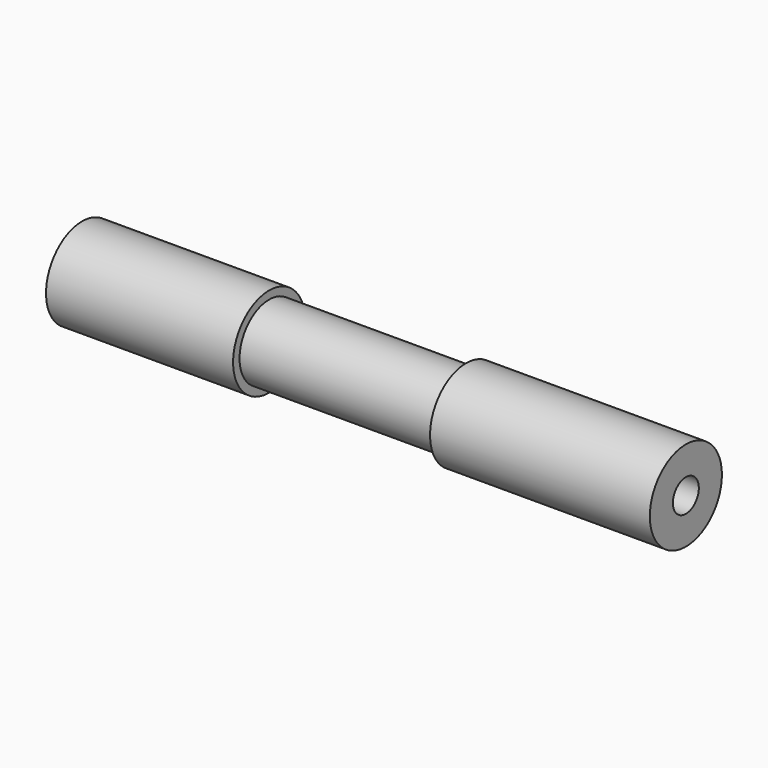
from build123d import *

# Parameters (mm, degrees)
F0_R     = 5.925
F1_DEPTH = 24.6
F2_R     = 4.865
F3_DEPTH = 25.9
F4_R     = 5.925
F4_R_2   = 4.865
F5_DEPTH = 28.9
F7_D     = 4.26


with BuildPart() as f1:
    # F0 (on Right) → F1 (new body)
    with BuildSketch(Plane.YZ):
        Circle(F0_R)
    extrude(amount=F1_DEPTH)

    # F2 (on face) → F3 (join)
    with BuildSketch(Plane.YZ.offset(24.6)):
        Circle(F2_R)
    extrude(amount=F3_DEPTH)

    # F4 (on face) → F5 (join)
    with BuildSketch(Plane.YZ.offset(50.5)):
        Circle(F4_R)
        Circle(F4_R_2, mode=Mode.SUBTRACT)
        Circle(F4_R_2)
    extrude(amount=F5_DEPTH)

    # F7 (through all)
    with Locations(Plane.YZ.offset(79.4)):
        with Locations((0, 0)):
            Hole(F7_D / 2)


solid = f1.part
